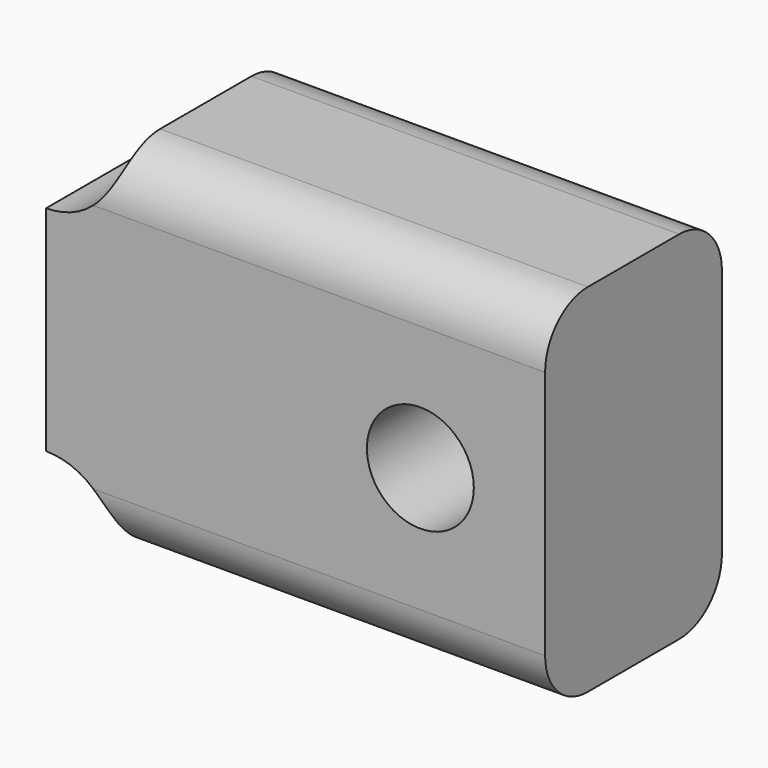
from build123d import *

# Parameters (mm, degrees)
F0_R     = 1.5
F1_DEPTH = 6.2
F2_R     = 1.5
F3_R     = 2
F4_DEPTH = 7.5


with BuildPart() as f1:
    # F0 (on Front) → F1 (new body)
    with BuildSketch(Plane.XZ):
        with BuildLine():
            Line((-12, 0), (0, 0))
            Line((0, 0), (0, 10))
            Line((0, 10), (-12, 10))
            ThreePointArc((-12, 10), (-12.585786, 8.585786), (-14, 8))
            Line((-14, 8), (-14, 2))
            ThreePointArc((-14, 2), (-12.585786, 1.414214), (-12, 0))
        make_face()
        with Locations((-3.5, 5)):
            Circle(F0_R, mode=Mode.SUBTRACT)
    extrude(amount=F1_DEPTH)

    # F2
    f2_edges = [f1.edges().sort_by_distance(p)[0] for p in [
        (-6, -6.2, 10),
        (-6, 0, 10),
        (-6, 0, 0),
        (-6, -6.2, 0),
    ]]
    fillet(f2_edges, radius=F2_R)

    # F3 (on face) → F4 (cut)
    with BuildSketch(Plane(origin=(-14, 0, 0), x_dir=(0, -1, 0), z_dir=(-1, 0, 0))):
        with Locations((3.1, 5)):
            Circle(F3_R)
    extrude(amount=-F4_DEPTH, mode=Mode.SUBTRACT)


solid = f1.part
